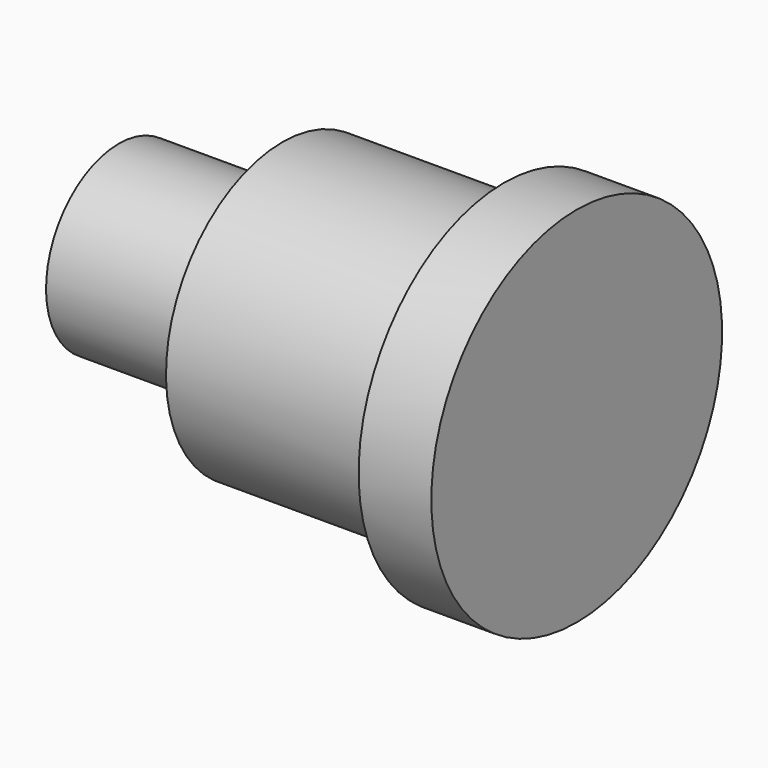
from build123d import *

# Parameters (mm, degrees)
F3_D     = 50.8
F3_DEPTH = 101.6
F3_TIP   = 15.2618597233


with BuildPart() as f1:
    # F0 (on Front) → F1 (revolve)
    with BuildSketch(Plane.XZ):
        Polygon((-50.8, 0), (0, 0), (0, 127), (-50.8, 127), (-50.8, 101.6), align=None)
        Polygon((-205.74, 0), (-50.8, 0), (-50.8, 101.6), (-205.74, 101.6), (-205.74, 63.5), align=None)
        Polygon((-320.04, 0), (-205.74, 0), (-205.74, 63.5), (-320.04, 63.5), (-320.04, 22.4364697933), align=None)
    revolve(axis=Axis((-160.02, 0, 0), (1, 0, 0)))

    # F3
    with Locations(Plane(origin=(-320.04, 0, 0), x_dir=(0, -1, 0), z_dir=(-1, 0, 0))):
        with Locations((0, 0)):
            Hole(F3_D / 2, depth=F3_DEPTH)
            with Locations((0, 0, -(F3_DEPTH + F3_TIP / 2))):  # 118° drill point
                Cone(0, F3_D / 2, F3_TIP, mode=Mode.SUBTRACT)


solid = f1.part
